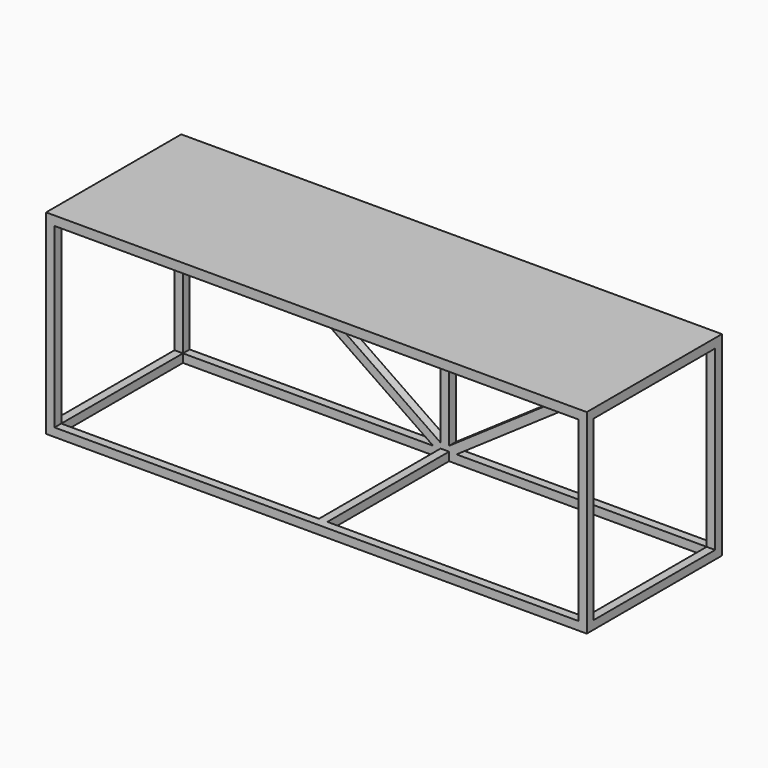
from build123d import *

# Parameters (mm, degrees)
F0_W      = 2438.4
F0_H      = 762
F1_DEPTH  = 3.4163
F2_W      = 2438.4
F2_H      = 762
F3_DEPTH  = 38.1
F4_W      = 38.1
F4_H      = 38.1
F5_DEPTH  = 800.1
F6_W      = 2438.4
F6_H      = 762
F6_W_2    = 1162.05
F6_H_2    = 685.8
F7_DEPTH  = 38.1
F10_DEPTH = 38.1


with BuildPart() as f1:
    # F0 (on Top) → F1 (new body)
    with BuildSketch(Plane.XY):
        Rectangle(F0_W, F0_H)
    extrude(amount=-F1_DEPTH)

    # F2 (on face) → F3 (join)
    with BuildSketch(Plane(origin=(0, 0, -3.4163), x_dir=(1, 0, 0), z_dir=(0, 0, -1))):
        Rectangle(F2_W, F2_H)
        Polygon((-600.075, -22.1201055787), (-56.5312900084, -342.9), (-1143.6187099916, -342.9), align=None, mode=Mode.SUBTRACT)
        Polygon((600.075, -22.1201055787), (1143.6187099916, -342.9), (56.5312900084, -342.9), align=None, mode=Mode.SUBTRACT)
        Polygon((19.05, -320.7798944213), (19.05, 320.7798944213), (562.5937099916, 0), align=None, mode=Mode.SUBTRACT)
        Polygon((-1181.1, -320.7798944213), (-1181.1, 320.7798944213), (-637.5562900084, 0), align=None, mode=Mode.SUBTRACT)
        Polygon((-562.5937099916, 0), (-19.05, 320.7798944213), (-19.05, -320.7798944213), align=None, mode=Mode.SUBTRACT)
        Polygon((-1143.6187099916, 342.9), (-56.5312900084, 342.9), (-600.075, 22.1201055787), align=None, mode=Mode.SUBTRACT)
        Polygon((56.5312900084, 342.9), (1143.6187099916, 342.9), (600.075, 22.1201055787), align=None, mode=Mode.SUBTRACT)
        Polygon((637.5562900084, 0), (1181.1, 320.7798944213), (1181.1, -320.7798944213), align=None, mode=Mode.SUBTRACT)
    extrude(amount=F3_DEPTH)

    # F4 (on face) → F5 (join)
    with BuildSketch(Plane(origin=(0, 0, -41.5163), x_dir=(1, 0, 0), z_dir=(0, 0, -1))):
        with Locations((-1200.15, 361.95)):
            Rectangle(F4_W, F4_H)
        with Locations((-1200.15, -361.95)):
            Rectangle(F4_W, F4_H)
        with Locations((1200.15, -361.95)):
            Rectangle(F4_W, F4_H)
        with Locations((1200.15, 361.95)):
            Rectangle(F4_W, F4_H)
    extrude(amount=F5_DEPTH)

    # F6 (on face) → F7 (join)
    with BuildSketch(Plane(origin=(0, 0, -841.6163), x_dir=(1, 0, 0), z_dir=(0, 0, -1))):
        Rectangle(F6_W, F6_H)
        with Locations((-600.075, 0)):
            Rectangle(F6_W_2, F6_H_2, mode=Mode.SUBTRACT)
        with Locations((600.075, 0)):
            Rectangle(F6_W_2, F6_H_2, mode=Mode.SUBTRACT)
    extrude(amount=F7_DEPTH)

    # F9 (on 3pt) → F10 (join)
    with BuildSketch(Plane(origin=(0, 381, 0), x_dir=(-1, 0, 0), z_dir=(0, 1, 0))):
        Polygon((19.05, -818.4874808139), (19.05, -41.5163), (-19.05, -41.5163), (-19.05, -818.4874808139), (-1147.508143563, -41.5163), (-1181.1, -41.5163), (-1181.1, -64.645119186), (-52.6418564368, -841.6163), (-19.05, -841.6163), (19.05, -841.6163), (52.6418564369, -841.6163), (1181.1, -64.6451191861), (1181.1, -41.5163), (1147.5081435631, -41.5163), align=None)
    extrude(amount=-F10_DEPTH)


solid = f1.part
